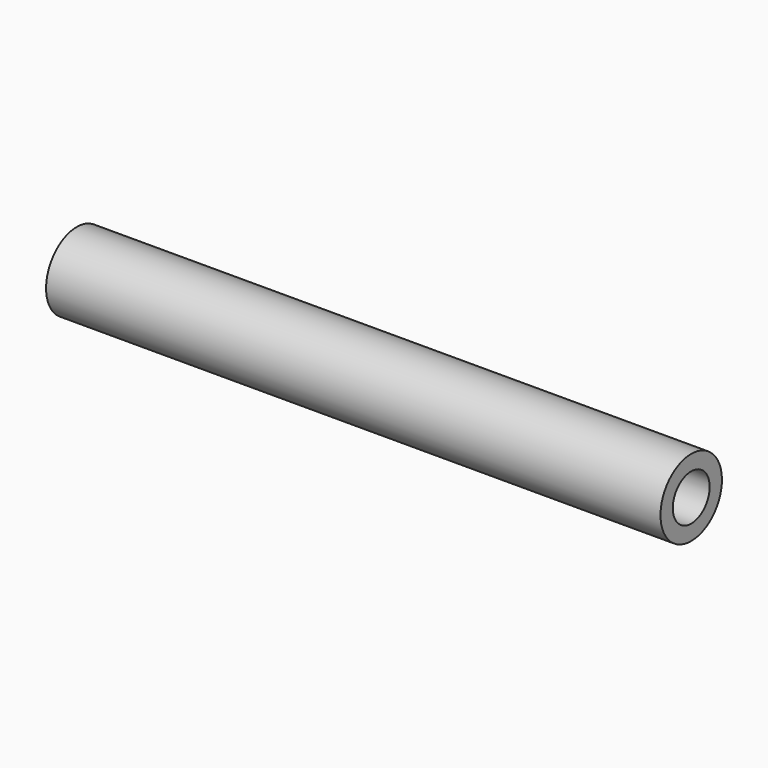
from build123d import *

# Parameters (mm, degrees)
CYLINDER003_R           = 1.5
CYLINDER003_DEPTH       = 44
CYLINDER003_PITCH_ANGLE = 90
CYLINDER002_R           = 2.5
CYLINDER002_DEPTH       = 40
CYLINDER002_PITCH_ANGLE = 90


with BuildPart() as cilindro003:
    # Cylinder003 → Cylinder003 (new body)
    with BuildSketch(Plane.XY):
        Circle(CYLINDER003_R)
    extrude(amount=CYLINDER003_DEPTH)


with BuildPart() as cilindro003_1:
    # Cylinder003 pitch: moved
    add(cilindro003.part.rotate(Axis((0, 0, 0), (0, 1, 0)), CYLINDER003_PITCH_ANGLE))


with BuildPart() as cilindro003_2:
    # Cylinder003 placement: moved
    add(cilindro003_1.part.moved(Location((-2, 0, 0))))


with BuildPart() as soporte2:
    # Cylinder002 → Cylinder002 (new body)
    with BuildSketch(Plane.XY):
        Circle(CYLINDER002_R)
    extrude(amount=CYLINDER002_DEPTH)


with BuildPart() as soporte2_1:
    # Cylinder002 pitch: moved
    add(soporte2.part.rotate(Axis((0, 0, 0), (0, 1, 0)), CYLINDER002_PITCH_ANGLE))


with BuildPart() as soporte2_2:
    # Cylinder002 placement: moved
    add(soporte2_1.part)

    # Cut001: cut Cilindro003
    add(cilindro003_2.part, mode=Mode.SUBTRACT)


with BuildPart() as soporte2_3:
    # Cut001 placement: moved
    add(soporte2_2.part.moved(Location((125, 96, 143.5))))


solid = soporte2_3.part
